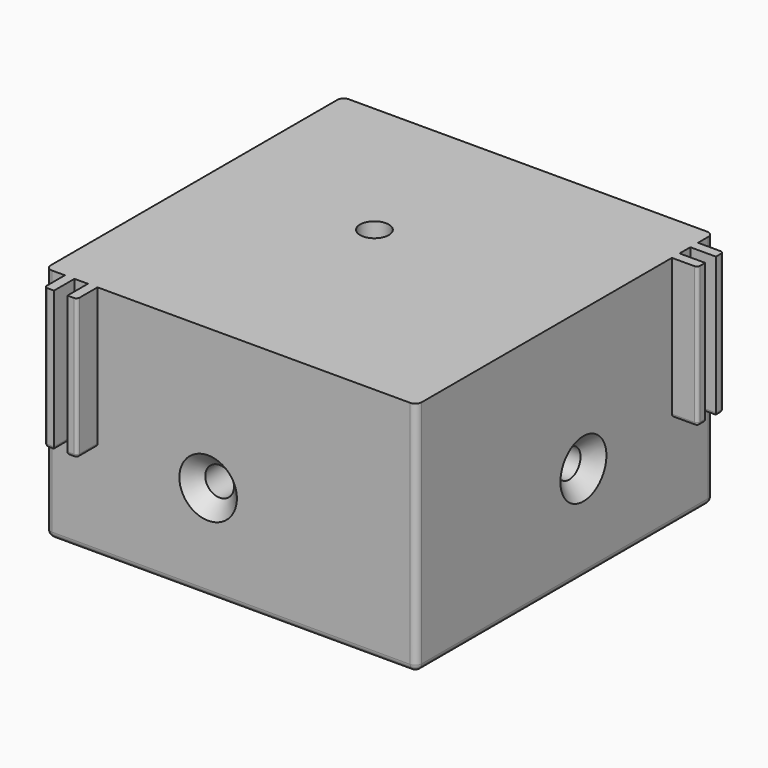
from build123d import *

# Parameters (mm, degrees)
F0_W      = 58
F0_H      = 58
F0_R      = 2.25
F1_DEPTH  = 7
F3_DEPTH  = 30
F4_R      = 2.25
F5_DEPTH  = 25
F6_R      = 2.25
F7_DEPTH  = 25
F8_R      = 1
F9_R      = 1
F10_R     = 1
F11_R     = 1
F12_SIZE2 = 2.25
F12_SIZE  = 2.25
F13_W     = 1.5
F13_H     = 22
F14_DEPTH = 4
F15_W     = 1.5
F15_H     = 22
F16_DEPTH = 4
F17_R     = 0.5
F18_R     = 0.5


with BuildPart() as f1:
    # F0 (on Top) → F1 (new body)
    with BuildSketch(Plane.XY):
        with Locations((-29, 29)):
            Rectangle(F0_W, F0_H)
        with Locations((-33, 33)):
            Circle(F0_R, mode=Mode.SUBTRACT)
    extrude(amount=F1_DEPTH)

    # F2 (on face) → F3 (join)
    with BuildSketch(Plane(origin=(0, 0, 0), x_dir=(1, 0, 0), z_dir=(0, 0, -1))):
        Polygon((0, -58), (0, 0), (-58, 0), (-58, -7), (-7, -7), (-7, -58), align=None)
    extrude(amount=F3_DEPTH)

    # F4 (on face) → F5 (cut)
    with BuildSketch(Plane(origin=(-7, 0, 0), x_dir=(0, -1, 0), z_dir=(-1, 0, 0))):
        with Locations((-32.6, -15)):
            Circle(F4_R)
    extrude(amount=-F5_DEPTH, mode=Mode.SUBTRACT)

    # F6 (on face) → F7 (cut)
    with BuildSketch(Plane(origin=(0, 7, 0), x_dir=(-1, 0, 0), z_dir=(0, 1, 0))):
        with Locations((32.6, -15)):
            Circle(F6_R)
    extrude(amount=-F7_DEPTH, mode=Mode.SUBTRACT)

    # F8
    f8_edges = [f1.edges().sort_by_distance(p)[0] for p in [
        (-29, 0, -30),
    ]]
    fillet(f8_edges, radius=F8_R)

    # F9
    f9_edges = [f1.edges().sort_by_distance(p)[0] for p in [
        (0, 29.5, -30),
    ]]
    fillet(f9_edges, radius=F9_R)

    # F10
    f10_edges = [f1.edges().sort_by_distance(p)[0] for p in [
        (-7, 32.5, 0),
        (-7, 7, -15),
        (-32.5, 7, 0),
    ]]
    fillet(f10_edges, radius=F10_R)

    # F11
    f11_edges = [f1.edges().sort_by_distance(p)[0] for p in [
        (-58, 4, -30),
        (-58, 0, -11),
        (-58, 33, 0),
        (-58, 7, -15.5),
        (-58, 7.292893, -0.292893),
        (-58, 0.292893, -29.707107),
        (-58, 58, 3.5),
        (-33, 58, 0),
        (-7.292893, 58, -0.292893),
        (-4, 58, -30),
        (-7, 58, -15.5),
        (0, 58, -11),
    ]]
    fillet(f11_edges, radius=F11_R)

    # F12
    f12_edges = [f1.edges().sort_by_distance(p)[0] for p in [
        (-35.25, 33, 0),
        (-30.35, 0, -15),
        (0, 34.85, -15),
    ]]
    chamfer(f12_edges, length=F12_SIZE, length2=F12_SIZE2)

    # F13 (on face) → F14 (join)
    with BuildSketch(Plane.XZ):
        with Locations((-50.65, -4)):
            Rectangle(F13_W, F13_H)
        with Locations((-54.25, -4)):
            Rectangle(F13_W, F13_H)
    extrude(amount=F14_DEPTH)

    # F15 (on face) → F16 (join)
    with BuildSketch(Plane.YZ):
        with Locations((54.25, -4)):
            Rectangle(F15_W, F15_H)
        with Locations((50.65, -4)):
            Rectangle(F15_W, F15_H)
    extrude(amount=F16_DEPTH)

    # F17
    f17_edges = [f1.edges().sort_by_distance(p)[0] for p in [
        (4, 54.25, -15),
        (4, 50.65, -15),
        (2, 51.4, -15),
        (2, 49.9, -15),
        (4, 49.9, -4),
        (2, 53.5, -15),
        (2, 55, -15),
        (4, 55, -4),
    ]]
    fillet(f17_edges, radius=F17_R)

    # F18
    f18_edges = [f1.edges().sort_by_distance(p)[0] for p in [
        (-50.65, -4, -15),
        (-54.25, -4, -15),
        (-49.9, -4, -4),
        (-49.9, -2, -15),
        (-55, -4, -4),
        (-55, -2, -15),
        (-53.5, -2, -15),
        (-51.4, -2, -15),
    ]]
    fillet(f18_edges, radius=F18_R)


solid = f1.part
